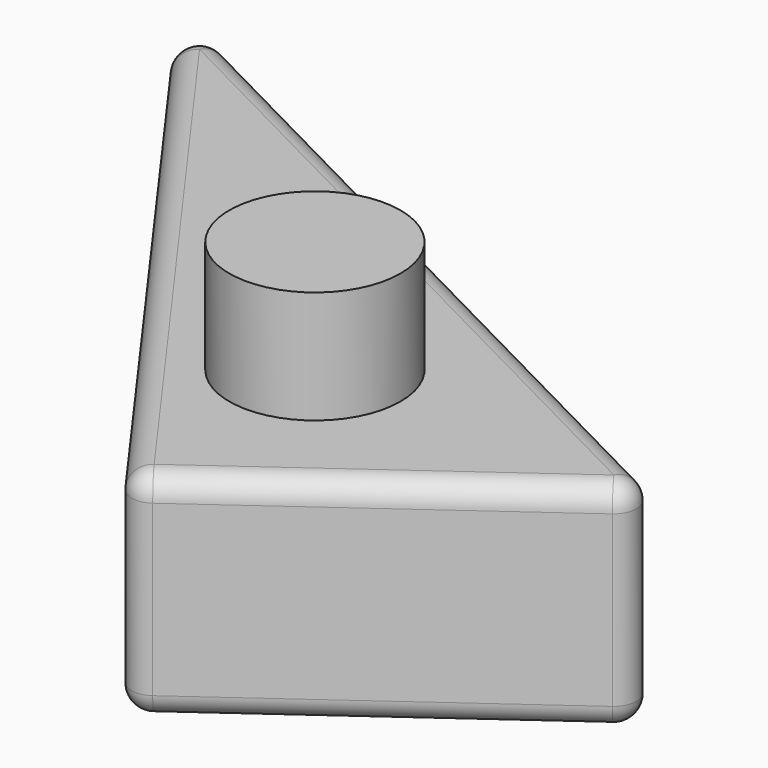
from build123d import *

# Parameters (mm, degrees)
F1_DEPTH = 48.350064
F2_R     = 5.08
F4_R     = 19.298697
F5_DEPTH = 25.4


with BuildPart() as f1:
    # F0 (on Top) → F1 (new body)
    with BuildSketch(Plane.XY):
        Polygon((107.200803, -20.653679), (-77.255428, 73.898613), (30.614838, -75.829387), align=None)
    extrude(amount=F1_DEPTH)

    # F2
    f2_edges = [f1.edges().sort_by_distance(p)[0] for p in [
        (-77.255428, 73.898613, 24.175032),
        (68.90782, -48.241533, 48.350064),
        (107.200803, -20.653679, 24.175032),
        (14.972687, 26.622467, 0),
        (14.972687, 26.622467, 48.350064),
        (-23.320295, -0.965387, 0),
        (68.90782, -48.241533, 0),
        (30.614838, -75.829387, 24.175032),
        (-23.320295, -0.965387, 48.350064),
    ]]
    fillet(f2_edges, radius=F2_R)

    # F4 (on face) → F5 (join)
    with BuildSketch(Plane.XY.offset(48.350064)):
        with Locations((31.383455, -22.975024)):
            Circle(F4_R)
    extrude(amount=F5_DEPTH)


solid = f1.part
